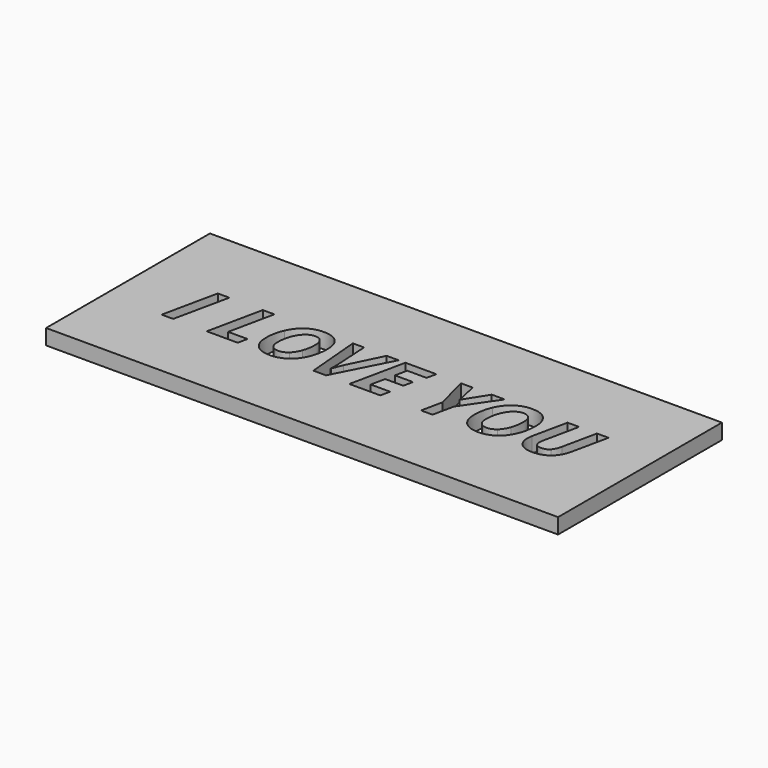
from build123d import *

# Parameters (mm, degrees)
F1_DEPTH = 3
F0_W     = 100
F0_H     = 40


with BuildPart() as f1:
    # F0 (on Top) → F1 (new body)
    with BuildSketch(Plane.XY):
        with BuildLine():
            add(Edge.make_bspline(
                [(-14.9193627329, 2.9595110785), (-15.3999214119, 3.5323938388), (-16.2734492571, 3.5323938388)],
                knots=[0, 0, 0, 1, 1, 1], degree=2))
            add(Edge.make_bspline(
                [(-16.2734492571, 3.5323938388), (-17.1682826595, 3.5323938388), (-17.9151608035, 2.8565342187)],
                knots=[0, 0, 0, 1, 1, 1], degree=2))
            add(Edge.make_bspline(
                [(-17.9151608035, 2.8565342187), (-18.6620389476, 2.1806745987), (-19.0881500916, 0.9970325321)],
                knots=[0, 0, 0, 1, 1, 1], degree=2))
            add(Edge.make_bspline(
                [(-19.0881500916, 0.9970325321), (-19.5142612356, -0.1866095346), (-19.5142612356, -1.5714707525)],
                knots=[0, 0, 0, 1, 1, 1], degree=2))
            add(Edge.make_bspline(
                [(-19.5142612356, -1.5714707525), (-19.5142612356, -2.6580541697), (-19.0218661358, -3.213182299)],
                knots=[0, 0, 0, 1, 1, 1], degree=2))
            add(Edge.make_bspline(
                [(-19.0218661358, -3.213182299), (-18.5294710361, -3.7683104282), (-17.6346376337, -3.7683104282)],
                knots=[0, 0, 0, 1, 1, 1], degree=2))
            add(Edge.make_bspline(
                [(-17.6346376337, -3.7683104282), (-16.7398042314, -3.7683104282), (-16.0035788659, -3.124409144)],
                knots=[0, 0, 0, 1, 1, 1], degree=2))
            add(Edge.make_bspline(
                [(-16.0035788659, -3.124409144), (-15.2673535005, -2.4805078597), (-14.8530787771, -1.3039676455)],
                knots=[0, 0, 0, 1, 1, 1], degree=2))
            add(Edge.make_bspline(
                [(-14.8530787771, -1.3039676455), (-14.4388040538, -0.1274274312), (-14.4388040538, 1.3355541631)],
                knots=[0, 0, 0, 1, 1, 1], degree=2))
            add(Edge.make_bspline(
                [(-14.4388040538, 1.3355541631), (-14.4388040538, 2.3866283183), (-14.9193627329, 2.9595110785)],
                knots=[0, 0, 0, 1, 1, 1], degree=2))
        make_face()
    extrude(amount=F1_DEPTH)


with BuildPart() as f1b:
    # F0 (on Top) → F1, piece 2 (new body)
    with BuildSketch(Plane.XY):
        with BuildLine():
            add(Edge.make_bspline(
                [(25.7695169499, 2.9595110785), (25.2889582709, 3.5323938388), (24.4154304257, 3.5323938388)],
                knots=[0, 0, 0, 1, 1, 1], degree=2))
            add(Edge.make_bspline(
                [(24.4154304257, 3.5323938388), (23.5205970233, 3.5323938388), (22.7737188793, 2.8565342187)],
                knots=[0, 0, 0, 1, 1, 1], degree=2))
            add(Edge.make_bspline(
                [(22.7737188793, 2.8565342187), (22.0268407352, 2.1806745987), (21.6007295912, 0.9970325321)],
                knots=[0, 0, 0, 1, 1, 1], degree=2))
            add(Edge.make_bspline(
                [(21.6007295912, 0.9970325321), (21.1746184472, -0.1866095346), (21.1746184472, -1.5714707525)],
                knots=[0, 0, 0, 1, 1, 1], degree=2))
            add(Edge.make_bspline(
                [(21.1746184472, -1.5714707525), (21.1746184472, -2.6580541697), (21.6670135469, -3.213182299)],
                knots=[0, 0, 0, 1, 1, 1], degree=2))
            add(Edge.make_bspline(
                [(21.6670135469, -3.213182299), (22.1594086467, -3.7683104282), (23.054242049, -3.7683104282)],
                knots=[0, 0, 0, 1, 1, 1], degree=2))
            add(Edge.make_bspline(
                [(23.054242049, -3.7683104282), (23.9490754514, -3.7683104282), (24.6853008169, -3.124409144)],
                knots=[0, 0, 0, 1, 1, 1], degree=2))
            add(Edge.make_bspline(
                [(24.6853008169, -3.124409144), (25.4215261823, -2.4805078597), (25.8358009056, -1.3039676455)],
                knots=[0, 0, 0, 1, 1, 1], degree=2))
            add(Edge.make_bspline(
                [(25.8358009056, -1.3039676455), (26.250075629, -0.1274274312), (26.250075629, 1.3355541631)],
                knots=[0, 0, 0, 1, 1, 1], degree=2))
            add(Edge.make_bspline(
                [(26.250075629, 1.3355541631), (26.250075629, 2.3866283183), (25.7695169499, 2.9595110785)],
                knots=[0, 0, 0, 1, 1, 1], degree=2))
        make_face()
    extrude(amount=F1_DEPTH)


with BuildPart() as f1c:
    # F0 (on Top) → F1, piece 3 (new body)
    with BuildSketch(Plane.XY):
        Rectangle(F0_W, F0_H)
        Polygon((-36.7362533052, -5.5437735282), (-38.9922750842, -5.5437735282), (-36.6841730542, 5.2723476768), (-34.4281512752, 5.2723476768), align=None, mode=Mode.SUBTRACT)
        Polygon((-24.1375671479, -5.5437735282), (-30.1812435401, -5.5437735282), (-27.8968143515, 5.2723476768), (-25.631323436, 5.2723476768), (-27.5251507426, -3.6499462216), (-23.7374961293, -3.6499462216), align=None, mode=Mode.SUBTRACT)
        with BuildLine():
            add(Edge.make_bspline(
                [(-13.1663888322, 4.3775142744), (-12.1307020239, 3.3122364144), (-12.1307020239, 1.3947362664)],
                knots=[0, 0, 0, 1, 1, 1], degree=2))
            add(Edge.make_bspline(
                [(-12.1307020239, 1.3947362664), (-12.1307020239, -0.6979429074), (-12.8633764631, -2.3514908745)],
                knots=[0, 0, 0, 1, 1, 1], degree=2))
            add(Edge.make_bspline(
                [(-12.8633764631, -2.3514908745), (-13.5960509024, -4.0050388416), (-14.868466124, -4.8489756351)],
                knots=[0, 0, 0, 1, 1, 1], degree=2))
            add(Edge.make_bspline(
                [(-14.868466124, -4.8489756351), (-16.1408813456, -5.6929124286), (-17.7979802389, -5.6929124286)],
                knots=[0, 0, 0, 1, 1, 1], degree=2))
            add(Edge.make_bspline(
                [(-17.7979802389, -5.6929124286), (-19.6918075456, -5.6929124286), (-20.7535344793, -4.6015944431)],
                knots=[0, 0, 0, 1, 1, 1], degree=2))
            add(Edge.make_bspline(
                [(-20.7535344793, -4.6015944431), (-21.8152614131, -3.5102764577), (-21.8152614131, -1.5714707525)],
                knots=[0, 0, 0, 1, 1, 1], degree=2))
            add(Edge.make_bspline(
                [(-21.8152614131, -1.5714707525), (-21.8152614131, 0.3886405098), (-21.0825869739, 2.0350866245)],
                knots=[0, 0, 0, 1, 1, 1], degree=2))
            add(Edge.make_bspline(
                [(-21.0825869739, 2.0350866245), (-20.3499125346, 3.6815327392), (-19.0621099661, 4.5621624368)],
                knots=[0, 0, 0, 1, 1, 1], degree=2))
            add(Edge.make_bspline(
                [(-19.0621099661, 4.5621624368), (-17.7743073976, 5.4427921344), (-16.0888010947, 5.4427921344)],
                knots=[0, 0, 0, 1, 1, 1], degree=2))
            add(Edge.make_bspline(
                [(-16.0888010947, 5.4427921344), (-14.2020756405, 5.4427921344), (-13.1663888322, 4.3775142744)],
                knots=[0, 0, 0, 1, 1, 1], degree=2))
        make_face(mode=Mode.SUBTRACT)
        with BuildLine():
            Line((-7.7583282297, -3.3327301477), (-7.7062479788, -3.3327301477))
            add(Edge.make_bspline(
                [(-7.7062479788, -3.3327301477), (-7.1286306503, -1.6969368116), (-6.8919022369, -1.2376836898)],
                knots=[0, 0, 0, 1, 1, 1], degree=2))
            Line((-6.8919022369, -1.2376836898), (-3.696068657, 5.2723476768))
            Line((-3.696068657, 5.2723476768), (-1.3595592175, 5.2723476768))
            Line((-1.3595592175, 5.2723476768), (-6.8919022369, -5.5437735282))
            Line((-6.8919022369, -5.5437735282), (-9.3633468721, -5.5437735282))
            Line((-9.3633468721, -5.5437735282), (-10.303158673, 5.2723476768))
            Line((-10.303158673, 5.2723476768), (-8.1205227021, 5.2723476768))
            Line((-8.1205227021, 5.2723476768), (-7.7441245249, -1.2376836898))
            add(Edge.make_bspline(
                [(-7.7441245249, -1.2376836898), (-7.7133498312, -1.5714707525), (-7.7133498312, -2.2224738892)],
                knots=[0, 0, 0, 1, 1, 1], degree=2))
            add(Edge.make_bspline(
                [(-7.7133498312, -2.2224738892), (-7.727553536, -2.9847393801), (-7.7583282297, -3.3327301477)],
                knots=[0, 0, 0, 1, 1, 1], degree=2))
        make_face(mode=Mode.SUBTRACT)
        Polygon((4.1088671304, -3.6499462216), (3.7087961119, -5.5437735282), (-2.3348802804, -5.5437735282), (-0.0504510917, 5.2723476768), (6.002694437, 5.2723476768), (5.6026234185, 3.3927240749), (1.8149688053, 3.3927240749), (1.3178391373, 1.0183380893), (4.84745978, 1.0183380893), (4.4402869091, -0.8612855126), (0.9130335505, -0.8612855126), (0.3212125172, -3.6499462216), align=None, mode=Mode.SUBTRACT)
        Polygon((13.1045468369, 5.2723476768), (14.0585623426, 0.8928720302), (16.8259174944, 5.2723476768), (19.3565442329, 5.2723476768), (14.7853185715, -1.4081281474), (13.9046888739, -5.5437735282), (11.6628707997, -5.5437735282), (12.5435004973, -1.4081281474), (10.7964448069, 5.2723476768), align=None, mode=Mode.SUBTRACT)
        with BuildLine():
            add(Edge.make_bspline(
                [(27.5224908506, 4.3775142744), (28.5581776589, 3.3122364144), (28.5581776589, 1.3947362664)],
                knots=[0, 0, 0, 1, 1, 1], degree=2))
            add(Edge.make_bspline(
                [(28.5581776589, 1.3947362664), (28.5581776589, -0.6979429074), (27.8255032197, -2.3514908745)],
                knots=[0, 0, 0, 1, 1, 1], degree=2))
            add(Edge.make_bspline(
                [(27.8255032197, -2.3514908745), (27.0928287804, -4.0050388416), (25.8204135588, -4.8489756351)],
                knots=[0, 0, 0, 1, 1, 1], degree=2))
            add(Edge.make_bspline(
                [(25.8204135588, -4.8489756351), (24.5479983371, -5.6929124286), (22.8908994438, -5.6929124286)],
                knots=[0, 0, 0, 1, 1, 1], degree=2))
            add(Edge.make_bspline(
                [(22.8908994438, -5.6929124286), (20.9970721372, -5.6929124286), (19.9353452035, -4.6015944431)],
                knots=[0, 0, 0, 1, 1, 1], degree=2))
            add(Edge.make_bspline(
                [(19.9353452035, -4.6015944431), (18.8736182697, -3.5102764577), (18.8736182697, -1.5714707525)],
                knots=[0, 0, 0, 1, 1, 1], degree=2))
            add(Edge.make_bspline(
                [(18.8736182697, -1.5714707525), (18.8736182697, 0.3886405098), (19.6062927089, 2.0350866245)],
                knots=[0, 0, 0, 1, 1, 1], degree=2))
            add(Edge.make_bspline(
                [(19.6062927089, 2.0350866245), (20.3389671482, 3.6815327392), (21.6267697167, 4.5621624368)],
                knots=[0, 0, 0, 1, 1, 1], degree=2))
            add(Edge.make_bspline(
                [(21.6267697167, 4.5621624368), (22.9145722852, 5.4427921344), (24.6000785881, 5.4427921344)],
                knots=[0, 0, 0, 1, 1, 1], degree=2))
            add(Edge.make_bspline(
                [(24.6000785881, 5.4427921344), (26.4868040423, 5.4427921344), (27.5224908506, 4.3775142744)],
                knots=[0, 0, 0, 1, 1, 1], degree=2))
        make_face(mode=Mode.SUBTRACT)
        with BuildLine():
            Line((37.369209203, 5.2723476768), (39.6323328344, 5.2723476768))
            Line((39.6323328344, 5.2723476768), (38.1456783987, -1.7253442212))
            add(Edge.make_bspline(
                [(38.1456783987, -1.7253442212), (37.724301823, -3.6949246201), (36.5335579039, -4.6939185243)],
                knots=[0, 0, 0, 1, 1, 1], degree=2))
            add(Edge.make_bspline(
                [(36.5335579039, -4.6939185243), (35.3428139849, -5.6929124286), (33.4347829735, -5.6929124286)],
                knots=[0, 0, 0, 1, 1, 1], degree=2))
            add(Edge.make_bspline(
                [(33.4347829735, -5.6929124286), (31.8652735931, -5.6929124286), (30.9668892645, -4.8525265613)],
                knots=[0, 0, 0, 1, 1, 1], degree=2))
            add(Edge.make_bspline(
                [(30.9668892645, -4.8525265613), (30.0685049359, -4.012140694), (30.0685049359, -2.5775665092)],
                knots=[0, 0, 0, 1, 1, 1], degree=2))
            add(Edge.make_bspline(
                [(30.0685049359, -2.5775665092), (30.0685049359, -2.0449275792), (30.1797672902, -1.5572670477)],
                knots=[0, 0, 0, 1, 1, 1], degree=2))
            Line((30.1797672902, -1.5572670477), (31.6285451798, 5.2723476768))
            Line((31.6285451798, 5.2723476768), (33.8845669588, 5.2723476768))
            Line((33.8845669588, 5.2723476768), (32.449992774, -1.526492354))
            add(Edge.make_bspline(
                [(32.449992774, -1.526492354), (32.324526715, -2.0733349888), (32.324526715, -2.4521004501)],
                knots=[0, 0, 0, 1, 1, 1], degree=2))
            add(Edge.make_bspline(
                [(32.324526715, -2.4521004501), (32.324526715, -3.7683104282), (33.7212243536, -3.7683104282)],
                knots=[0, 0, 0, 1, 1, 1], degree=2))
            add(Edge.make_bspline(
                [(33.7212243536, -3.7683104282), (34.6326287449, -3.7683104282), (35.1652676749, -3.2025295204)],
                knots=[0, 0, 0, 1, 1, 1], degree=2))
            add(Edge.make_bspline(
                [(35.1652676749, -3.2025295204), (35.6979066049, -2.6367486125), (35.9346350182, -1.5122886492)],
                knots=[0, 0, 0, 1, 1, 1], degree=2))
            Line((35.9346350182, -1.5122886492), (37.369209203, 5.2723476768))
        make_face(mode=Mode.SUBTRACT)
    extrude(amount=F1_DEPTH)


solid = Compound([f1.part, f1b.part, f1c.part])
